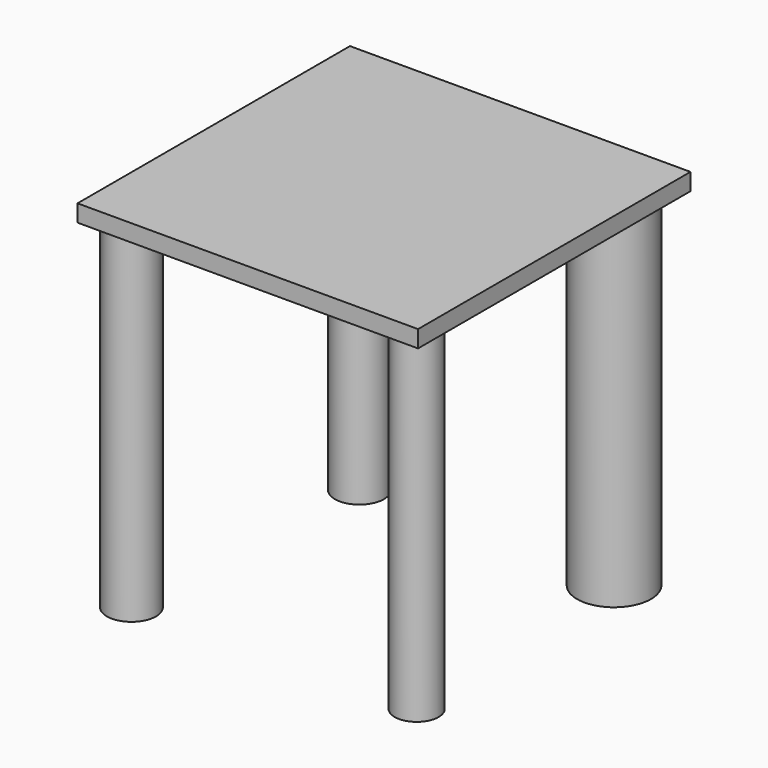
from build123d import *

# Parameters (mm, degrees)
F0_W     = 50.8
F0_H     = 2.54
F1_DEPTH = 50.8
F2_R     = 3.657656
F2_R_2   = 3.275364
F2_R_3   = 3.657655
F2_R_4   = 5.51516
F3_DEPTH = 50.8


with BuildPart() as f1:
    # F0 (on Front) → F1 (new body)
    with BuildSketch(Plane.XZ):
        with Locations((23.962391, -1.010957)):
            Rectangle(F0_W, F0_H)
    extrude(amount=F1_DEPTH)

    # F2 (on face) → F3 (join)
    with BuildSketch(Plane(origin=(0, 0, -2.280957), x_dir=(1, 0, 0), z_dir=(0, 0, -1))):
        with Locations((3.140111, 46.47363)):
            Circle(F2_R)
        with Locations((45.091975, 45.720004)):
            Circle(F2_R_2)
        with Locations((5.400988, 6.782637)):
            Circle(F2_R_3)
        with Locations((43.58473, 7.033846)):
            Circle(F2_R_4)
    extrude(amount=F3_DEPTH)


solid = f1.part
